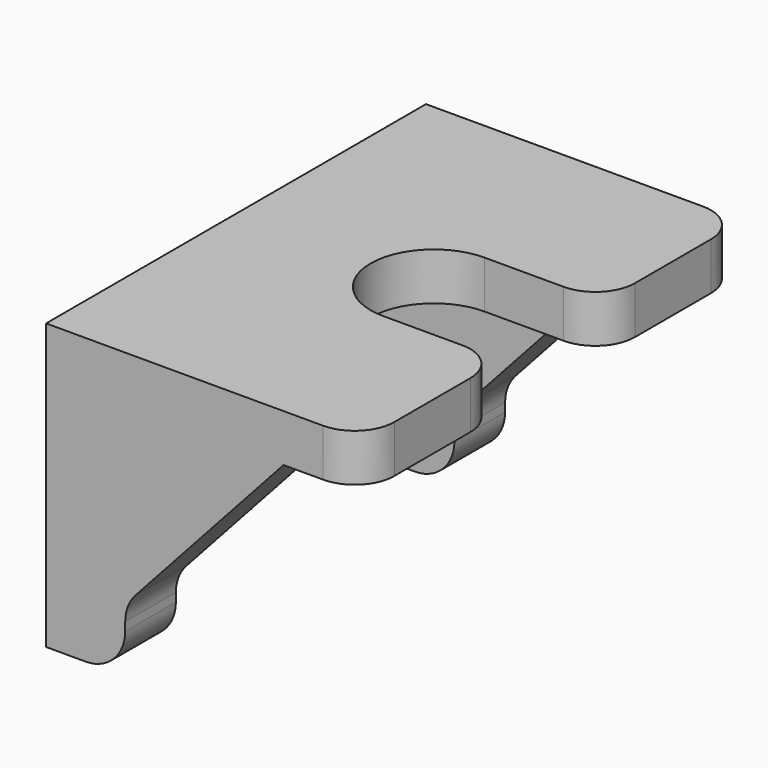
from build123d import *

# Parameters (mm, degrees)
PAD065_DEPTH           = 1.2
PAD066_DEPTH           = 1.6
LINEARPATTERN003_COUNT = 2
LINEARPATTERN003_PITCH = 10.4
FILLET_R               = 1
FILLET001_R            = 1
FILLET002_R            = 1


with BuildPart() as part:
    # Sketch095 → Pad065 (new body)
    with BuildSketch(Plane.XY):
        with BuildLine():
            Line((-4, 6), (4, 6))
            Line((4, 6), (4, 1.6))
            Line((1, 1.6), (4, 1.6))
            ThreePointArc((1, 1.6), (-0.6, 0), (1, -1.6))
            Line((4, -1.6), (1, -1.6))
            Line((4, -1.6), (4, -6))
            Line((4, -6), (-4, -6))
            Line((-4, -6), (-4, 6))
        make_face()
    extrude(amount=PAD065_DEPTH)

    # Sketch096 (on DatumPlane) → Pad066 (join)
    with BuildSketch(Plane.XZ.offset(6)):
        Polygon((-4, 0), (-4, -6), (-2, -6), (-2, -4.4), (2, 0), align=None)
    pad066 = extrude(amount=-PAD066_DEPTH)

    # LinearPattern003: Pad066 ×2
    with Locations(*[(0, i * LINEARPATTERN003_PITCH, 0) for i in range(1, LINEARPATTERN003_COUNT)]):
        add(pad066)

    # Fillet
    fillet_edges = [part.edges().sort_by_distance(p)[0] for p in [
        (-2, -5.2, -6),
        (-2, 5.2, -6),
    ]]
    fillet(fillet_edges, radius=FILLET_R)

    # Fillet001
    fillet001_edges = [part.edges().sort_by_distance(p)[0] for p in [
        (-2, -5.2, -4.4),
        (-2, 5.2, -4.4),
    ]]
    fillet(fillet001_edges, radius=FILLET001_R)

    # Fillet002
    fillet002_edges = [part.edges().sort_by_distance(p)[0] for p in [
        (4, -6, 0.6),
        (4, -1.6, 0.6),
        (4, 1.6, 0.6),
        (4, 6, 0.6),
    ]]
    fillet(fillet002_edges, radius=FILLET002_R)


with BuildPart() as part_1:
    # Body018 placement: moved
    add(part.part.moved(Location((38.8, 39, 34.1))))


solid = part_1.part
